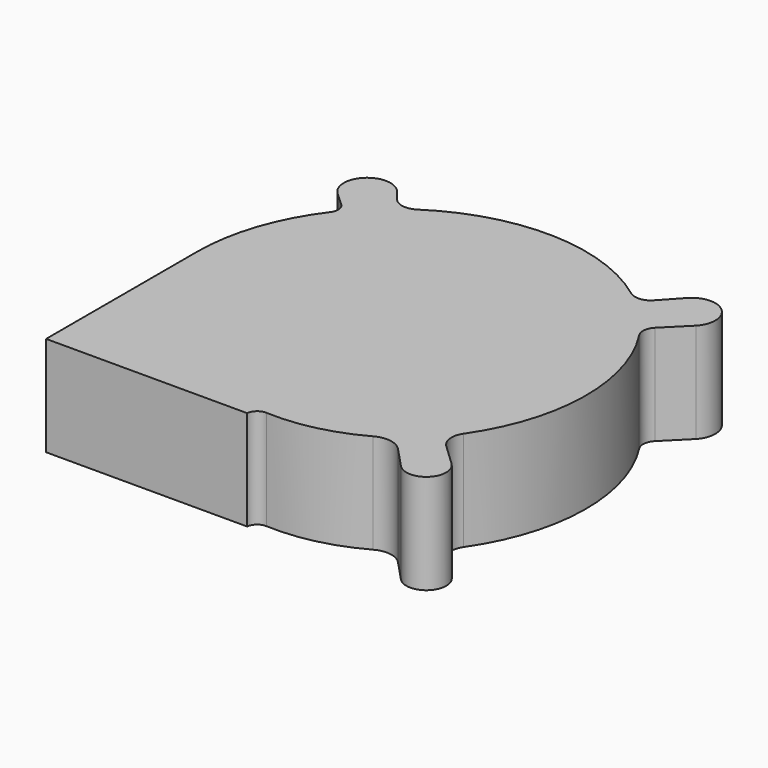
from build123d import *

# Parameters (mm, degrees)
F2_DEPTH = 15.4


with BuildPart() as f2:
    # F1 (on face) → F2 (new body)
    with BuildSketch(Plane.XY):
        with BuildLine():
            Line((-17.897991, -15.693804), (-17.897991, -44.793312))
            Line((-17.897991, -44.793312), (13.120339, -44.793312))
            ThreePointArc((13.120339, -44.793312), (13.695694, -43.682314), (14.878026, -43.273121))
            ThreePointArc((14.878026, -43.273121), (22.042908, -42.614951), (28.755708, -40.025156))
            ThreePointArc((28.755708, -40.025156), (31.057932, -39.616394), (33.125576, -40.708259))
            Line((33.125576, -40.708259), (36.21891, -44.001164))
            ThreePointArc((36.21891, -44.001164), (40.678051, -44.012351), (40.433127, -39.559927))
            Line((40.433127, -39.559927), (37.405714, -36.689103))
            ThreePointArc((37.405714, -36.689103), (36.34121, -34.790999), (36.840468, -32.672815))
            ThreePointArc((36.840468, -32.672815), (42.115603, -16.109233), (37.301965, 0.594304))
            ThreePointArc((37.301965, 0.594304), (36.963865, 2.006931), (37.589498, 3.317812))
            Line((37.589498, 3.317812), (41.103564, 6.831879))
            ThreePointArc((41.103564, 6.831879), (40.893704, 11.989854), (35.735729, 11.779994))
            Line((35.735729, 11.779994), (32.792926, 8.587569))
            ThreePointArc((32.792926, 8.587569), (31.275221, 8.029013), (29.734906, 8.521806))
            ThreePointArc((29.734906, 8.521806), (13.002866, 14.345123), (-4.039225, 9.50371))
            ThreePointArc((-4.039225, 9.50371), (-5.95321, 9.089923), (-7.646157, 10.074041))
            Line((-7.646157, 10.074041), (-8.896648, 11.637925))
            ThreePointArc((-8.896648, 11.637925), (-14.168792, 12.018772), (-14.139943, 6.732969))
            Line((-14.139943, 6.732969), (-11.910063, 4.692161))
            ThreePointArc((-11.910063, 4.692161), (-11.466992, 3.569664), (-11.830173, 2.418834))
            ThreePointArc((-11.830173, 2.418834), (-16.340709, -6.142808), (-17.897991, -15.693804))
        make_face()
    extrude(amount=F2_DEPTH)


solid = f2.part
